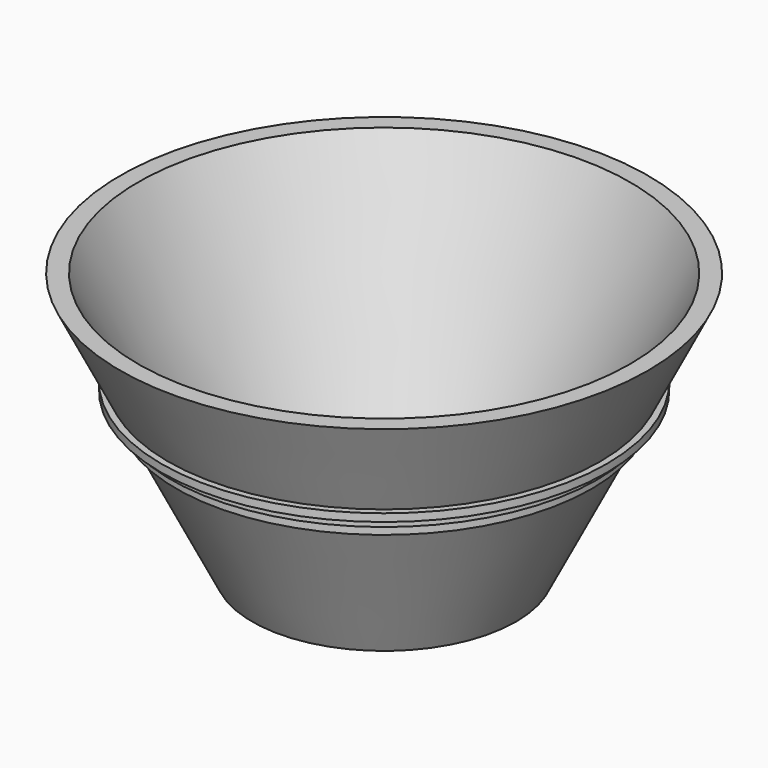
from build123d import *


with BuildPart() as f1:
    # F0 (on Front) → F1 (revolve)
    with BuildSketch(Plane.XZ):
        Polygon((0, 3.0734), (0, 0), (25.4, 0), (39.01757, 27.235139), (39.956536, 29.113071), (40.993106, 31.186212), (41.607701, 32.415403), (50.8, 50.8), (47.363834, 50.8), (23.500534, 3.0734), align=None)
        Polygon((41.607701, 32.415403), (40.993106, 31.186212), (42.863108, 30.934094), (42.863108, 32.415403), align=None)
        Polygon((40.993106, 31.186212), (39.956536, 29.113071), (40.993106, 29.113071), align=None)
        Polygon((39.956536, 29.113071), (39.01757, 27.235139), (39.956536, 27.235139), align=None)
    revolve(axis=Axis((0, 0, 25.4), (0, 0, 1)))


solid = f1.part
